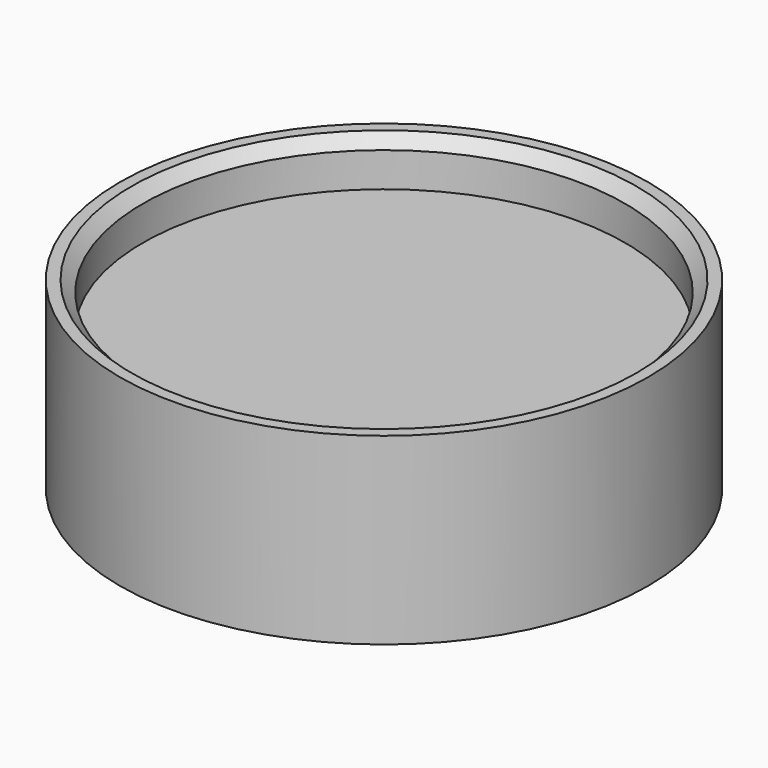
from build123d import *

# Parameters (mm, degrees)
F0_R     = 21
F1_DEPTH = 12
F2_R     = 23
F2_R_2   = 21
F3_DEPTH = 16
F4_SIZE  = 1


with BuildPart() as f1:
    # F0 (on Top) → F1 (new body)
    with BuildSketch(Plane.XY):
        Circle(F0_R)
    extrude(amount=F1_DEPTH)

    # F2 (on Top) → F3 (join)
    with BuildSketch(Plane.XY):
        Circle(F2_R)
        Circle(F2_R_2, mode=Mode.SUBTRACT)
    extrude(amount=F3_DEPTH)

    # F4
    f4_edges = [f1.edges().sort_by_distance(p)[0] for p in [
        (-21, 0, 16),
    ]]
    chamfer(f4_edges, length=F4_SIZE)


solid = f1.part
